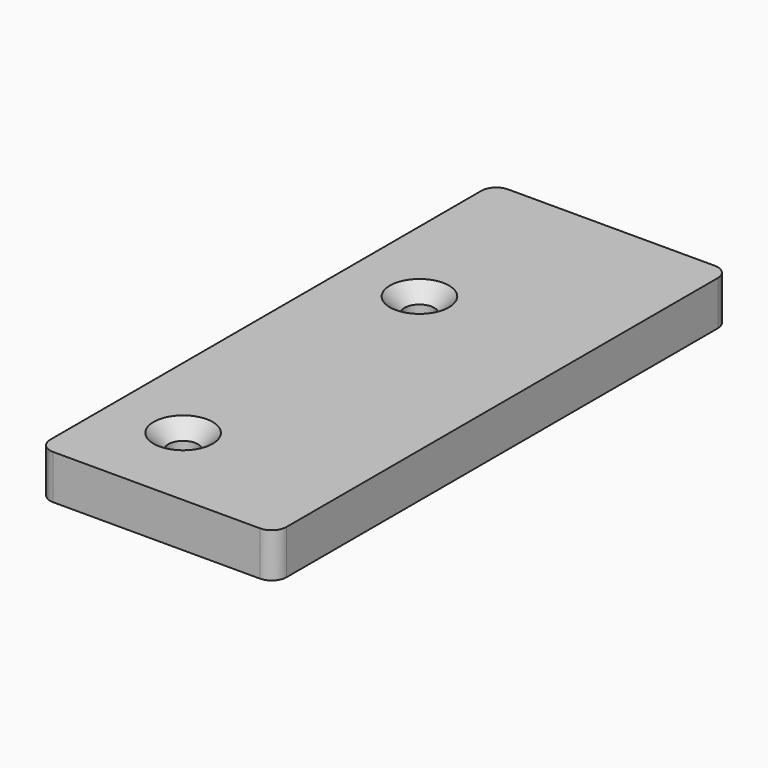
from build123d import *

# Parameters (mm, degrees)
F0_W           = 32
F0_H           = 77
F0_R           = 2
F1_DEPTH       = 6
F2_R           = 2
F4_D           = 4
F4_DEPTH       = 10
F4_CSINK_D     = 8
F4_CSINK_ANGLE = 90


with BuildPart() as f1:
    # F0 (on Top) → F1 (new body)
    with BuildSketch(Plane.XY):
        Rectangle(F0_W, F0_H)
        with Locations((-6, -26.5)):
            Circle(F0_R, mode=Mode.SUBTRACT)
        with Locations((-6, 13.5)):
            Circle(F0_R, mode=Mode.SUBTRACT)
    extrude(amount=F1_DEPTH)

    # F2
    f2_edges = [f1.edges().sort_by_distance(p)[0] for p in [
        (-16, 38.5, 3),
        (16, 38.5, 3),
        (16, -38.5, 3),
        (-16, -38.5, 3),
    ]]
    fillet(f2_edges, radius=F2_R)

    # F4
    with Locations(Plane.XY.offset(6)):
        with Locations((-6, 13.5), (-6, -26.5)):
            CounterSinkHole(F4_D / 2, F4_CSINK_D / 2, depth=F4_DEPTH, counter_sink_angle=F4_CSINK_ANGLE)


solid = f1.part
